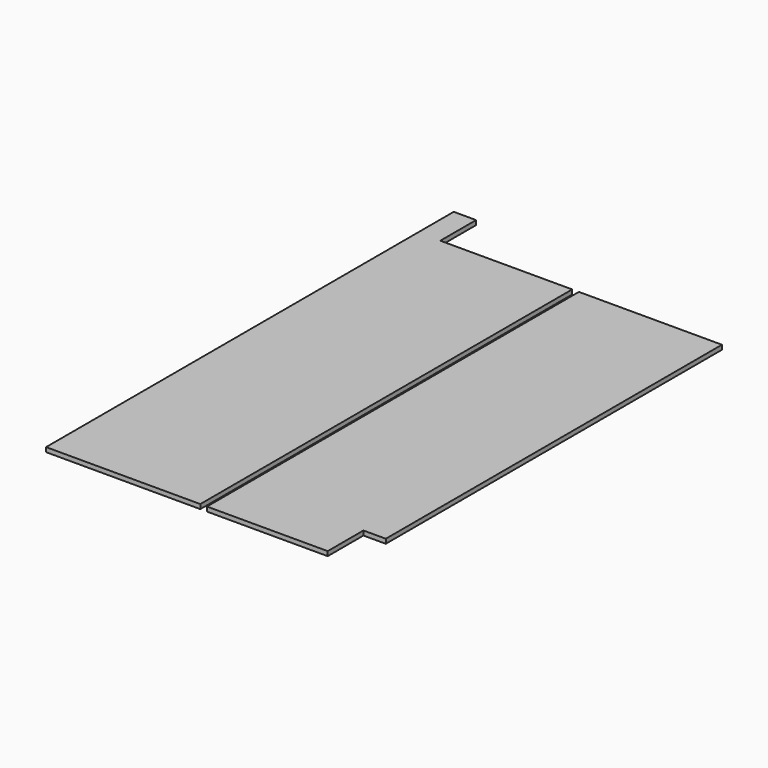
from build123d import *

# Parameters (mm, degrees)
F0_W     = 5
F0_H     = 10
F0_W_2   = 0.5
F0_H_2   = 104
F0_W_3   = 33.5
F1_DEPTH = 1
F2_W     = 1.5
F2_H     = 104
F3_DEPTH = 1
F4_W     = 5
F4_H     = 10
F5_DEPTH = 1


with BuildPart() as f1:
    # F0 (on Top) → F1 (new body)
    with BuildSketch(Plane.XY):
        with Locations((-31.5, 57)):
            Rectangle(F0_W, F0_H)
        Polygon((-29, 52), (-34, 52), (-34, -52), (-0.5, -52), (-0.5, 52), align=None)
        with Locations((-0.25, 0)):
            Rectangle(F0_W_2, F0_H_2)
        with Locations((0.25, 0)):
            Rectangle(F0_W_2, F0_H_2)
        with Locations((17.25, 0)):
            Rectangle(F0_W_3, F0_H_2)
    extrude(amount=F1_DEPTH)

    # F2 (on face) → F3 (cut)
    with BuildSketch(Plane.XY.offset(1)):
        with Locations((1.25, 0)):
            Rectangle(F2_W, F2_H)
    extrude(amount=-F3_DEPTH, mode=Mode.SUBTRACT)

    # F4 (on face) → F5 (cut)
    with BuildSketch(Plane.XY.offset(1)):
        with Locations((31.5, -47)):
            Rectangle(F4_W, F4_H)
    extrude(amount=-F5_DEPTH, mode=Mode.SUBTRACT)


solid = f1.part
